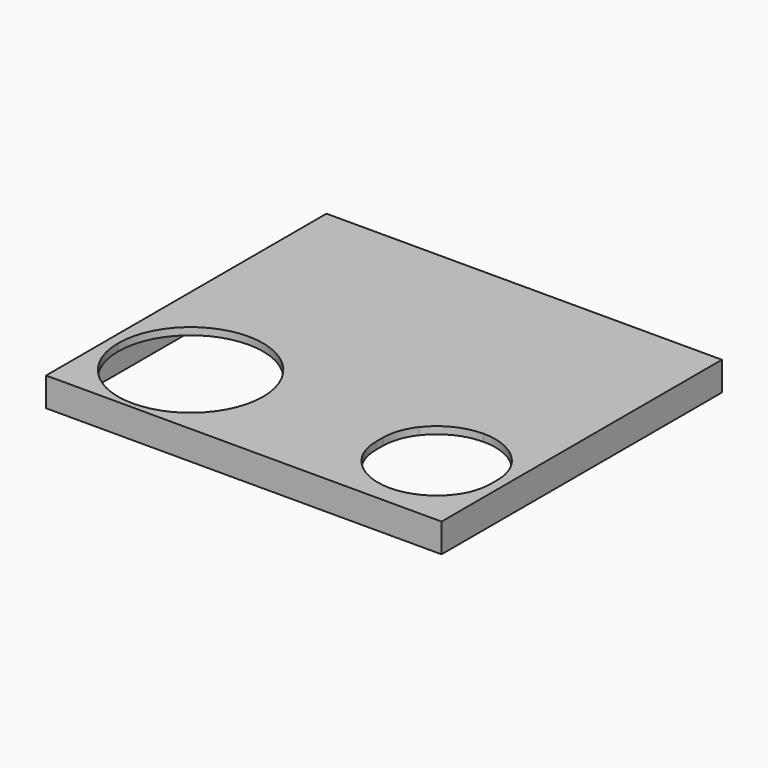
from build123d import *

# Parameters (mm, degrees)
F1_W     = 274
F1_H     = 242.838524
F2_DEPTH = 5
F3_DEPTH = 15


with BuildPart() as f2:
    # F1 (on Top) → F2 (new body)
    with BuildSketch(Plane.XY):
        with Locations((39.25, 0)):
            Rectangle(F1_W, F1_H)
        with BuildLine():
            Line((171.25, -116.419262), (-29.471843607, -116.419262))
            ThreePointArc((-29.471843607, -116.419262), (-40.75, -117.7025), (-52.028156393, -116.419262))
            Line((-52.028156393, -116.419262), (-92.75, -116.419262))
            Line((-92.75, -116.419262), (-92.75, 116.419262))
            Line((-92.75, 116.419262), (171.25, 116.419262))
            Line((171.25, 116.419262), (171.25, -116.419262))
        make_face(mode=Mode.SUBTRACT)
        with BuildLine():
            ThreePointArc((-90.9525, -67.5), (-40.75, -17.2975), (9.4525, -67.5))
            ThreePointArc((9.4525, -67.5), (-1.4658896463, -98.7577939075), (-29.471843607, -116.419262))
            Line((-29.471843607, -116.419262), (171.25, -116.419262))
            Line((171.25, -116.419262), (171.25, 116.419262))
            Line((171.25, 116.419262), (-92.75, 116.419262))
            Line((-92.75, 116.419262), (-92.75, -116.419262))
            Line((-92.75, -116.419262), (-52.028156393, -116.419262))
            ThreePointArc((-52.028156393, -116.419262), (-80.0341103537, -98.7577939075), (-90.9525, -67.5))
        make_face()
        with BuildLine():
            ThreePointArc((129.75, -26.7975), (147.7340523324, -30.9860661123), (162.0167402689, -42.6897001496))
            ThreePointArc((162.0167402689, -42.6897001496), (167.5427305892, -53.0095287964), (169.452499, -64.5589104655))
            Line((169.452499, -64.5589104655), (169.452499, -70.4410895345))
            ThreePointArc((169.452499, -70.4410895345), (167.5427305892, -81.9904712036), (162.0167402689, -92.3102998504))
            ThreePointArc((162.0167402689, -92.3102998504), (147.7340523324, -104.0139338877), (129.75, -108.2025))
            ThreePointArc((129.75, -108.2025), (111.7659414601, -104.0139308303), (97.4832512953, -92.3102888794))
            ThreePointArc((97.4832512953, -92.3102888794), (91.9572664474, -81.9904641283), (90.0475, -70.441088234))
            Line((90.0475, -70.441088234), (90.0475, -64.558911766))
            ThreePointArc((90.0475, -64.558911766), (91.9572664474, -53.0095358717), (97.4832512953, -42.6897111206))
            ThreePointArc((97.4832512953, -42.6897111206), (111.7659414601, -30.9860691697), (129.75, -26.7975))
        make_face(mode=Mode.SUBTRACT)
    extrude(amount=F2_DEPTH)

    # F1 (on Top) → F3 (join)
    with BuildSketch(Plane.XY):
        with Locations((39.25, 0)):
            Rectangle(F1_W, F1_H)
        with BuildLine():
            Line((171.25, -116.419262), (-29.471843607, -116.419262))
            ThreePointArc((-29.471843607, -116.419262), (-40.75, -117.7025), (-52.028156393, -116.419262))
            Line((-52.028156393, -116.419262), (-92.75, -116.419262))
            Line((-92.75, -116.419262), (-92.75, 116.419262))
            Line((-92.75, 116.419262), (171.25, 116.419262))
            Line((171.25, 116.419262), (171.25, -116.419262))
        make_face(mode=Mode.SUBTRACT)
    extrude(amount=-F3_DEPTH)


solid = f2.part
